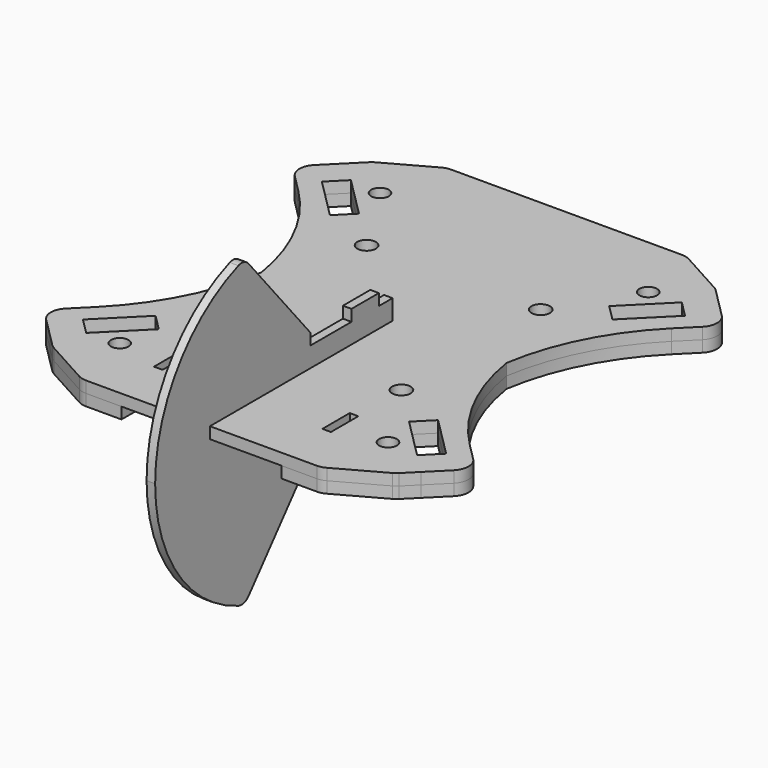
from build123d import *

# Parameters (mm, degrees)
F0_R      = 1.625
F0_R_2    = 1.55
F1_DEPTH  = 2
F4_R      = 3
F5_W      = 1.5
F5_H      = 6
F6_DEPTH  = 25
F7_DEPTH  = 2
F9_DEPTH  = 25
F10_DEPTH = 25
F11_R     = 1.55
F12_DEPTH = 1.5


with BuildPart() as f1:
    # F0 (on Top) → F1 (new body)
    with BuildSketch(Plane.XY):
        with BuildLine():
            Line((0, 40), (-21, 40))
            Line((-21, 40), (-30.0520382004, 35.0017856687))
            Line((-30.0520382004, 35.0017856687), (-32.5269119346, 32.5269119346))
            Line((-32.5269119346, 32.5269119346), (-37.8302127935, 27.2236110757))
            Line((-37.8302127935, 27.2236110757), (-32.7157287525, 22.1091270347))
            ThreePointArc((-32.7157287525, 22.1091270347), (-24.0448186995, 9.1321930819), (-21, -6.1751442127))
            Line((-21, -6.1751442127), (-21, 0))
            Line((-21, 0), (0, 0))
            Line((0, 0), (0, 40))
        make_face()
        with Locations((-15.25, 15.25)):
            Circle(F0_R, mode=Mode.SUBTRACT)
        Polygon((-31.8198051534, 26.1629509039), (-28.9913780286, 28.9913780286), (-21.9203102168, 21.9203102168), (-24.7487373415, 19.091883092), align=None, mode=Mode.SUBTRACT)
        with Locations((-23.5, 28.5)):
            Circle(F0_R_2, mode=Mode.SUBTRACT)
    extrude(amount=F1_DEPTH)

    # F2: F1 across plane


with BuildPart() as f1_1:
    add(f1.part)
    add(f1.part.mirror(Plane.YZ))

    # F3: F1 across plane


with BuildPart() as f1_2:
    add(f1_1.part)
    add(f1_1.part.mirror(Plane.XZ))

    # F4
    f4_edges = [f1_2.edges().sort_by_distance(p)[0] for p in [
        (-37.830213, 27.223611, 1),
        (-30.052038, 35.001786, 1),
        (-21, 40, 1),
        (21, 40, 1),
        (30.052038, 35.001786, 1),
        (37.830213, 27.223611, 1),
        (37.830213, -27.223611, 1),
        (30.052038, -35.001786, 1),
        (21, -40, 1),
        (-21, -40, 1),
        (-30.052038, -35.001786, 1),
        (-37.830213, -27.223611, 1),
    ]]
    fillet(f4_edges, radius=F4_R)

    # F5 (on face) → F6 (cut)
    with BuildSketch(Plane.XY.offset(2)):
        with Locations((-14.75, -28)):
            Rectangle(F5_W, F5_H)
        with Locations((14.75, -28)):
            Rectangle(F5_W, F5_H)
    extrude(amount=-F6_DEPTH, mode=Mode.SUBTRACT)


with BuildPart() as f7:
    # F7 (new): a face of the model
    f7_faces = [f1_2.part.faces().sort_by_distance(p)[0] for p in [
        (0, 0.1170988239, 2),
    ]]
    extrude(f7_faces, amount=F7_DEPTH)


with BuildPart() as f1_3:
    add(f1_2.part)

    # F8 (on face) → F9 (cut)
    with BuildSketch(Plane.XY.offset(2)):
        with BuildLine():
            Line((11, -34), (-11, -34))
            ThreePointArc((-11, -34), (-13.1213203436, -34.8786796564), (-14, -37))
            Line((-14, -37), (-14, -40))
            Line((-14, -40), (14, -40))
            Line((14, -40), (14, -37))
            ThreePointArc((14, -37), (13.1213203436, -34.8786796564), (11, -34))
        make_face()
    extrude(amount=-F9_DEPTH, mode=Mode.SUBTRACT)

    # F8 (on face) → F10 (cut)
    with BuildSketch(Plane.XY.offset(2)):
        with BuildLine():
            Line((11, -34), (-11, -34))
            ThreePointArc((-11, -34), (-13.1213203436, -34.8786796564), (-14, -37))
            Line((-14, -37), (-14, -40))
            Line((-14, -40), (14, -40))
            Line((14, -40), (14, -37))
            ThreePointArc((14, -37), (13.1213203436, -34.8786796564), (11, -34))
        make_face()
    extrude(amount=-F10_DEPTH, mode=Mode.SUBTRACT)


with BuildPart() as f12:
    # F11 (on Right) → F12 (new body)
    with BuildSketch(Plane.YZ):
        with BuildLine():
            Line((0, 0), (0, 7.5))
            Line((0, 7.5), (-3, 7.5))
            Line((-3, 7.5), (-3, 9.5))
            Line((-3, 9.5), (-9, 9.5))
            Line((-9, 9.5), (-9, 7.5))
            Line((-9, 7.5), (-18, 7.5))
            Line((-18, 7.5), (-18, 9.5))
            Line((-18, 9.5), (-31.5496746022, 25.6478733856))
            ThreePointArc((-31.5496746022, 25.6478733856), (-32.5716215669, 26.2961428394), (-33.7803606798, 26.2363211021))
            ThreePointArc((-33.7803606798, 26.2363211021), (-46.998370584, 15.9710660409), (-52, 0))
            ThreePointArc((-52, 0), (-46.998370584, -15.9710660409), (-33.7803606798, -26.2363211021))
            ThreePointArc((-33.7803606798, -26.2363211021), (-32.5716215669, -26.2961428394), (-31.5496746022, -25.6478733856))
            Line((-31.5496746022, -25.6478733856), (-18, -9.5))
            Line((-18, -9.5), (-18, -7.5))
            Line((-18, -7.5), (-9, -7.5))
            Line((-9, -7.5), (-9, -9.5))
            Line((-9, -9.5), (-3, -9.5))
            Line((-3, -9.5), (-3, -7.5))
            Line((-3, -7.5), (0, -7.5))
            Line((0, -7.5), (0, 0))
        make_face()
        with Locations((-24, 0)):
            Circle(F11_R, mode=Mode.SUBTRACT)
    extrude(amount=F12_DEPTH)


solid = Compound([f7.part, f1_3.part, f12.part])
